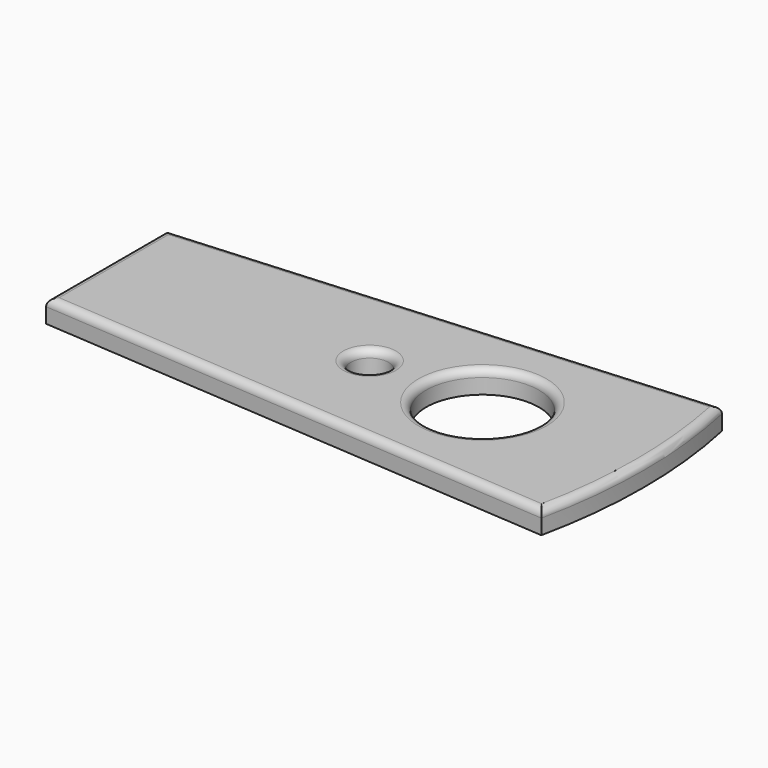
from build123d import *

# Parameters (mm, degrees)
F0_R     = 2.5
F0_R_2   = 7.5
F1_DEPTH = 3
F2_R     = 1


with BuildPart() as f1:
    # F0 (on Top) → F1 (new body)
    with BuildSketch(Plane.XY):
        with BuildLine():
            ThreePointArc((34.8212002188, -15), (36.4142842854, 0), (34.8212002188, 15))
            Line((34.8212002188, 15), (-35, 10))
            Line((-35, 10), (-35, -10))
            Line((-35, -10), (34.8212002188, -15))
        make_face()
        Circle(F0_R, mode=Mode.SUBTRACT)
        with Locations((15, 0)):
            Circle(F0_R_2, mode=Mode.SUBTRACT)
    extrude(amount=F1_DEPTH)

    # F2
    f2_edges = [f1.edges().sort_by_distance(p)[0] for p in [
        (-35, 0, 3),
        (-0.0894, -12.5, 3),
        (36.414284, 0, 3),
        (-0.0894, 12.5, 3),
        (-2.5, 0, 3),
        (7.5, 0, 3),
    ]]
    fillet(f2_edges, radius=F2_R)


solid = f1.part
